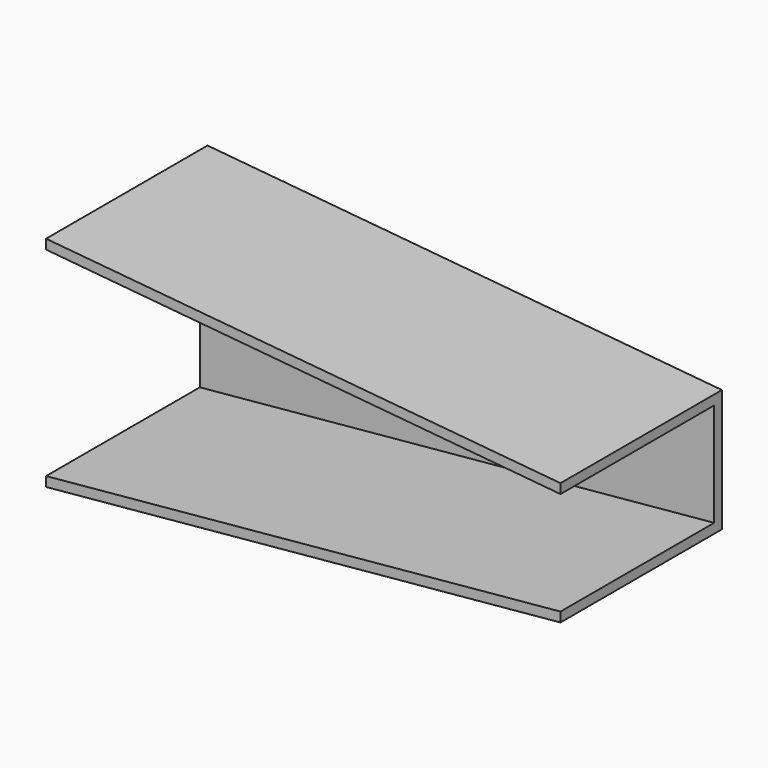
from build123d import *

# Parameters (mm, degrees)
F1_DEPTH = 41.95
F3_DEPTH = 39.95
F5_DEPTH = 5


with BuildPart() as f1:
    # F0 (on Front) → F1 (new body)
    with BuildSketch(Plane.XZ):
        Polygon((54.9357536622, -12.7440134094), (54.9357536622, 0.0059865906), (54.9357536622, 12.7559865906), (-52.01294007, 22.7216603247), (-52.0118536268, -22.7213396623), align=None)
    extrude(amount=F1_DEPTH)

    # F2 (on face) → F3 (cut)
    with BuildSketch(Plane.XZ.offset(41.95)):
        Polygon((54.9357536622, 10.7559865906), (-52.0128922544, 20.7216603253), (-52.0119014425, -20.7213396629), (54.9357536622, -10.7440134094), align=None)
    extrude(amount=-F3_DEPTH, mode=Mode.SUBTRACT)

    # F4 (on face) → F5 (cut)
    with BuildSketch(Plane.XZ.offset(2)):
        Polygon((-17.6542899587, 4.4775479473), (-22.824516984, 4.4775479473), (-25.4096304967, 0), (-22.824516984, -4.4775479473), (-17.6542899587, -4.4775479473), (-15.069176446, 0), align=None)
        Polygon((4.0099493481, -2.841678097), (4.4659400954, 2.0518789548), (0.4559907474, 4.8935570518), (-4.0099493481, 2.841678097), (-4.4659400954, -2.0518789548), (-0.4559907474, -4.8935570518), align=None)
        Polygon((24.5754495263, 0.2760817257), (21.8509733677, 4.442849405), (16.8802086264, 4.1667676794), (14.6339200437, -0.2760817257), (17.3583962023, -4.442849405), (22.3291609436, -4.1667676794), align=None)
    extrude(amount=-F5_DEPTH, mode=Mode.SUBTRACT)


solid = f1.part
